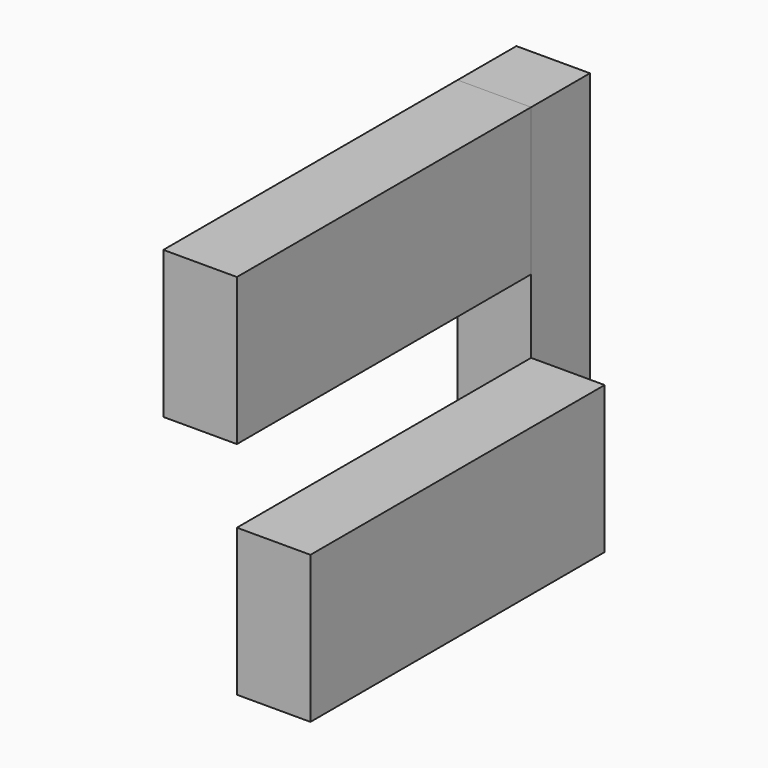
from build123d import *

# Parameters (mm, degrees)
F0_W     = 20
F0_H     = 40
F1_DEPTH = 100
F2_W     = 20
F2_H     = 100
F3_DEPTH = 20
F4_W     = 100
F4_H     = 40
F5_DEPTH = 20


with BuildPart() as f1:
    # F0 (on Front) → F1 (new body)
    with BuildSketch(Plane.XZ):
        with Locations((-21.823531, 4.198755)):
            Rectangle(F0_W, F0_H)
    extrude(amount=F1_DEPTH)


with BuildPart() as f3:
    # F2 (on face) → F3 (new body)
    with BuildSketch(Plane.YZ.offset(-11.823531)):
        with Locations((10, -25.801245)):
            Rectangle(F2_W, F2_H)
    extrude(amount=-F3_DEPTH)


with BuildPart() as f5:
    # F4 (on face) → F5 (new body)
    with BuildSketch(Plane.YZ.offset(-11.823531)):
        with Locations((-50, -55.801245)):
            Rectangle(F4_W, F4_H)
    extrude(amount=F5_DEPTH)


solid = Compound([f1.part, f3.part, f5.part])
